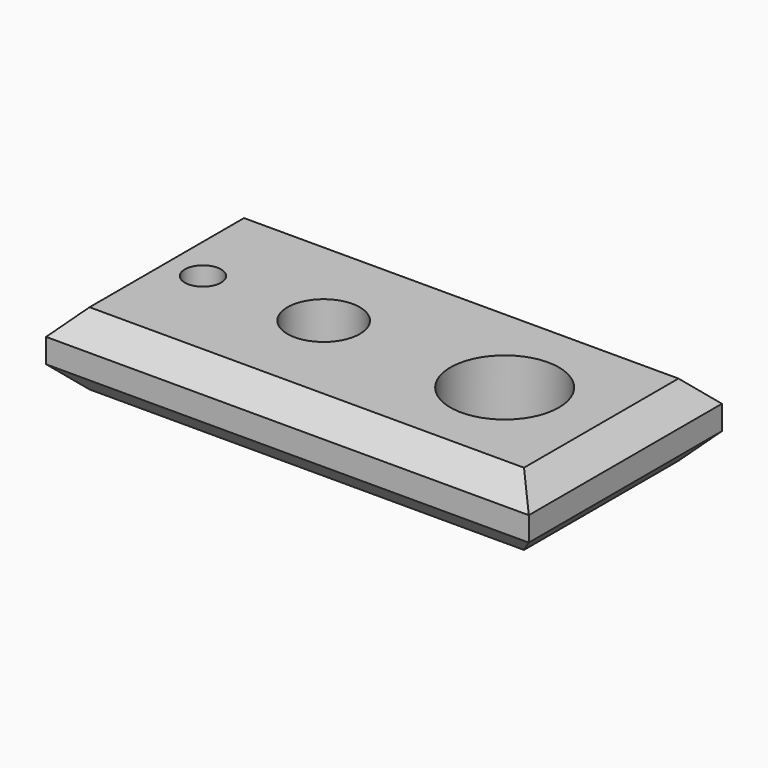
from build123d import *

# Parameters (mm, degrees)
F0_W     = 200
F0_H     = 100
F0_R     = 7.5
F0_R_2   = 15
F0_R_3   = 22.5
F1_DEPTH = 30
F2_SIZE2 = 5
F2_SIZE  = 5
F3_SIZE2 = 5
F3_SIZE  = 5
F4_SIZE2 = 5
F4_SIZE  = 5
F5_SIZE2 = 10
F5_SIZE  = 10


with BuildPart() as f1:
    # F0 (on Top) → F1 (new body)
    with BuildSketch(Plane.XY):
        Rectangle(F0_W, F0_H)
        with Locations((-75, 0)):
            Circle(F0_R, mode=Mode.SUBTRACT)
        with Locations((-25, 0)):
            Circle(F0_R_2, mode=Mode.SUBTRACT)
        with Locations((50, 0)):
            Circle(F0_R_3, mode=Mode.SUBTRACT)
    extrude(amount=F1_DEPTH)

    # F2
    f2_edges = [f1.edges().sort_by_distance(p)[0] for p in [
        (27.5, 0, 0),
    ]]
    chamfer(f2_edges, length=F2_SIZE, length2=F2_SIZE2)

    # F3
    f3_edges = [f1.edges().sort_by_distance(p)[0] for p in [
        (-40, 0, 0),
    ]]
    chamfer(f3_edges, length=F3_SIZE, length2=F3_SIZE2)

    # F4
    f4_edges = [f1.edges().sort_by_distance(p)[0] for p in [
        (-82.5, 0, 0),
    ]]
    chamfer(f4_edges, length=F4_SIZE, length2=F4_SIZE2)

    # F5
    f5_edges = [f1.edges().sort_by_distance(p)[0] for p in [
        (0, 50, 0),
        (-100, 0, 0),
        (0, -50, 0),
        (100, 0, 0),
        (0, 50, 30),
        (100, 0, 30),
        (0, -50, 30),
        (-100, 0, 30),
    ]]
    chamfer(f5_edges, length=F5_SIZE, length2=F5_SIZE2)


solid = f1.part
